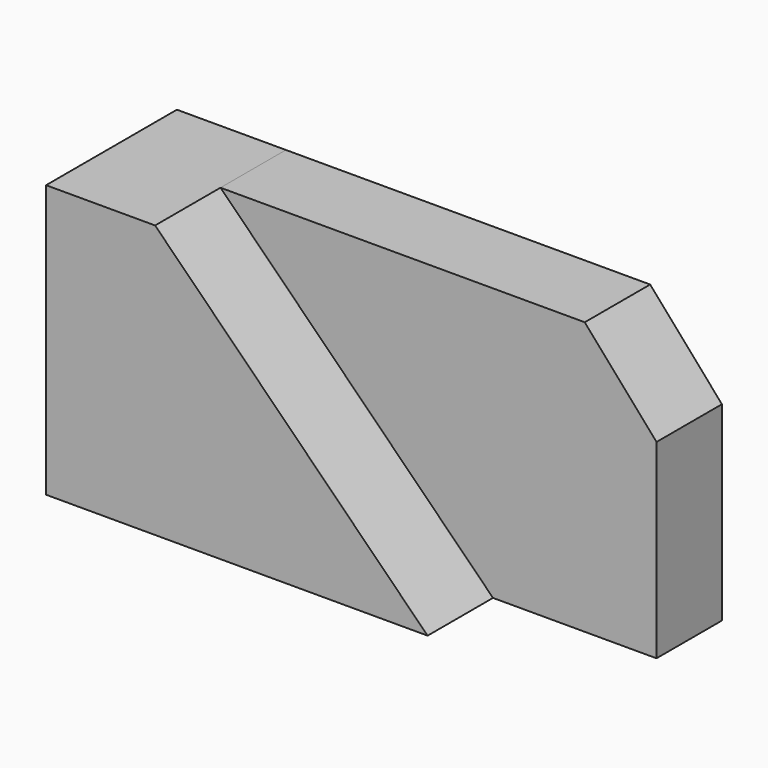
from build123d import *

# Parameters (mm, degrees)
F1_DEPTH = 38.1
F2_DEPTH = 19.05


with BuildPart() as f1:
    # F0 (on Front) → F1 (new body)
    with BuildSketch(Plane.XZ):
        Polygon((-44.634447, 43.473302), (-70.034447, 43.473302), (-70.034447, -20.026698), (18.865553, -20.026698), align=None)
    extrude(amount=F1_DEPTH)


with BuildPart() as f2:
    # F0 (on Front) → F2 (new body)
    with BuildSketch(Plane.XZ):
        Polygon((40.242975, 43.473302), (-44.634447, 43.473302), (18.865553, -20.026698), (56.965553, -20.026698), (56.965553, 24.354845), align=None)
    extrude(amount=F2_DEPTH)


solid = Compound([f1.part, f2.part])
